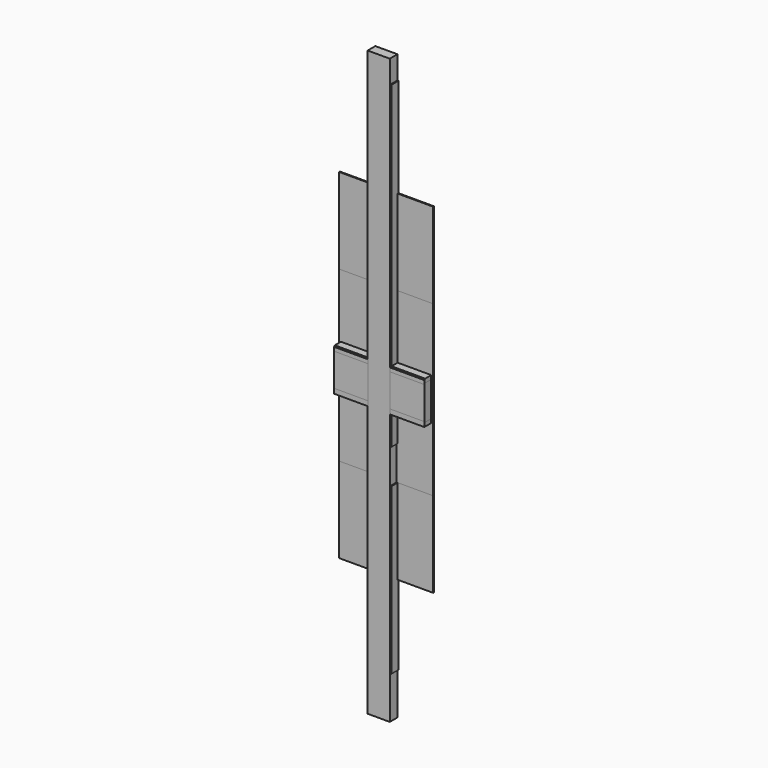
from build123d import *

# Parameters (mm, degrees)
F1_DEPTH  = 31.75
F2_W      = 298.45
F2_H      = 139.7
F3_DEPTH  = 31.75
F4_W      = 298.45
F4_H      = 76.2
F5_DEPTH  = 31.75
F6_W      = 298.45
F6_H      = 114.3
F7_DEPTH  = 31.75
F8_SIZE   = 3.175
F9_SIZE   = 3.175
F10_SIZE  = 3.175
F11_SIZE  = 3.175
F13_DEPTH = 31.75
F14_SIZE  = 3.175
F15_W     = 311.15
F15_H     = 1123.95
F16_DEPTH = 3.175
F17_W     = 311.15
F17_H     = 558.8
F18_DEPTH = 3.175


with BuildPart() as f1:
    # F0 (on Front) → F1 (new body)
    with BuildSketch(Plane.XZ):
        Polygon((34.925, 889), (34.925, 965.2), (-38.1, 965.2), (-38.1, -965.2), (34.925, -965.2), (34.925, -825.5), (38.1, -825.5), (38.1, -279.4), (34.925, -279.4), (34.925, -165.1), (38.1, -165.1), (38.1, 889), align=None)
    extrude(amount=F1_DEPTH)

    # F8
    f8_edges = [f1.edges().sort_by_distance(p)[0] for p in [
        (38.1, -31.75, 361.95),
        (38.1, -31.75, -552.45),
    ]]
    chamfer(f8_edges, length=F8_SIZE)


with BuildPart() as f3:
    # F2 (on Front) → F3 (new body)
    with BuildSketch(Plane.XZ):
        Rectangle(F2_W, F2_H)
    extrude(amount=F3_DEPTH)

    # F9
    f9_edges = [f3.edges().sort_by_distance(p)[0] for p in [
        (0, -31.75, 69.85),
    ]]
    chamfer(f9_edges, length=F9_SIZE)


with BuildPart() as f5:
    # F4 (on Front) → F5 (new body)
    with BuildSketch(Plane.XZ):
        Rectangle(F4_W, F4_H)
    extrude(amount=F5_DEPTH)

    # F10
    f10_edges = [f5.edges().sort_by_distance(p)[0] for p in [
        (0, -31.75, -38.1),
    ]]
    chamfer(f10_edges, length=F10_SIZE)


with BuildPart() as f7:
    # F6 (on Front) → F7 (new body)
    with BuildSketch(Plane.XZ):
        Rectangle(F6_W, F6_H)
    extrude(amount=F7_DEPTH)

    # F11
    f11_edges = [f7.edges().sort_by_distance(p)[0] for p in [
        (0, -31.75, -57.15),
        (0, -31.75, 57.15),
    ]]
    chamfer(f11_edges, length=F11_SIZE)


with BuildPart() as f13:
    # F12 (on Front) → F13 (new body)
    with BuildSketch(Plane.XZ):
        Polygon((-36.5125, -965.2), (33.3375, -965.2), (33.3375, -825.5), (36.5125, -825.5), (36.5125, -279.4), (33.3375, -279.4), (33.3375, -165.1), (36.5125, -165.1), (36.5125, 889), (33.3375, 889), (33.3375, 965.2), (-36.5125, 965.2), align=None)
    extrude(amount=F13_DEPTH)

    # F14
    f14_edges = [f13.edges().sort_by_distance(p)[0] for p in [
        (36.5125, 0, 361.95),
        (36.5125, 0, -552.45),
    ]]
    chamfer(f14_edges, length=F14_SIZE)


with BuildPart() as f16:
    # F15 (on Front) → F16 (new body)
    with BuildSketch(Plane.XZ):
        Rectangle(F15_W, F15_H)
    extrude(amount=F16_DEPTH)


with BuildPart() as f18:
    # F17 (on Front) → F18 (new body)
    with BuildSketch(Plane.XZ):
        Rectangle(F17_W, F17_H)
    extrude(amount=F18_DEPTH)


solid = Compound([f1.part, f3.part, f5.part, f7.part, f13.part, f16.part, f18.part])
